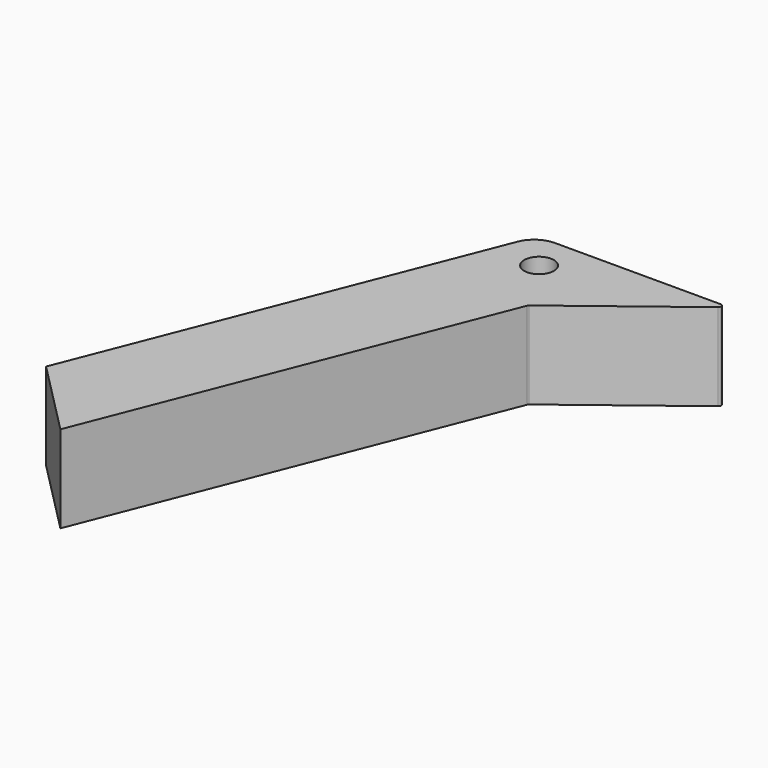
from build123d import *

# Parameters (mm, degrees)
F1_DEPTH = 15
F3_D     = 5.1


with BuildPart() as f1:
    # F0 (on Top) → F1 (new body)
    with BuildSketch(Plane.XY):
        with BuildLine():
            Line((16.345871, 27.436218), (-12.117236, 27.436218))
            ThreePointArc((-12.117236, 27.436218), (-14.649858, 26.655872), (-16.304115, 24.585473))
            Line((-16.304115, 24.585473), (-43.058704, -43.335009))
            Line((-43.058704, -43.335009), (-30.149364, -56.39547))
            Line((-30.149364, -56.39547), (-3.652537, 10.870645))
            ThreePointArc((-3.652537, 10.870645), (-3.586646, 10.988302), (-3.491709, 11.084071))
            Line((-3.491709, 11.084071), (16.650252, 26.539541))
            ThreePointArc((16.650252, 26.539541), (16.819336, 27.096937), (16.345871, 27.436218))
        make_face()
    extrude(amount=F1_DEPTH)

    # F3 (through all)
    with Locations(Plane.XY.offset(15)):
        with Locations((-9.721193, 20.991709)):
            Hole(F3_D / 2)


solid = f1.part
